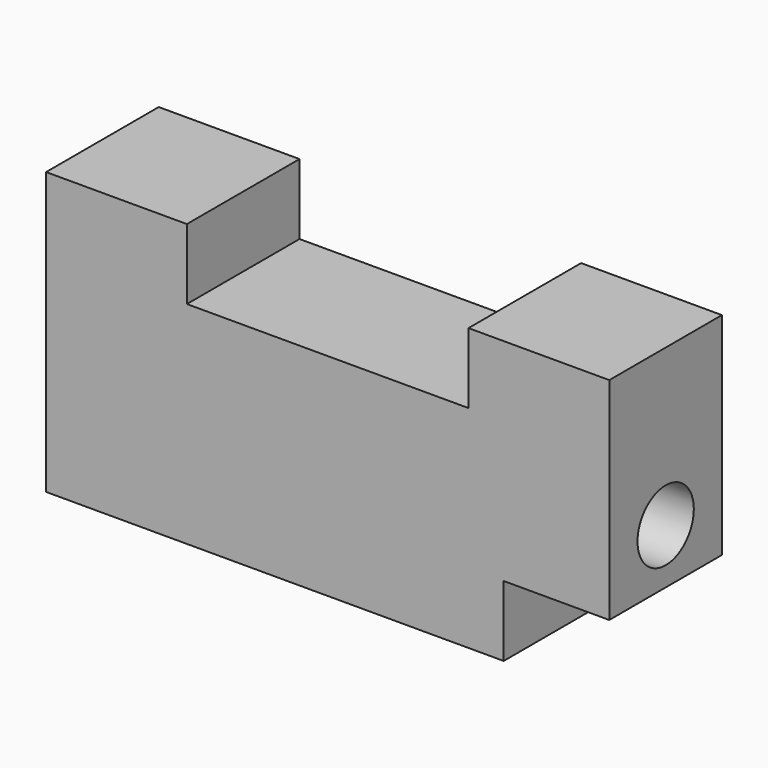
from build123d import *

# Parameters (mm, degrees)
F0_W     = 101.6
F0_H     = 50.8
F1_DEPTH = 25.4
F2_W     = 50.8
F2_H     = 12.7
F3_DEPTH = 25.401
F4_W     = 25.4
F4_H     = 12.7
F5_DEPTH = 19.05
F6_R     = 6.35
F7_DEPTH = 101.601


with BuildPart() as f1:
    # F0 (on Front) → F1 (new body)
    with BuildSketch(Plane.XZ):
        with Locations((-50.8, 25.4)):
            Rectangle(F0_W, F0_H)
    extrude(amount=F1_DEPTH)

    # F2 (on face) → F3 (cut, through all)
    with BuildSketch(Plane.XZ.offset(25.4)):
        with Locations((-50.8, 44.45)):
            Rectangle(F2_W, F2_H)
    extrude(amount=-F3_DEPTH, mode=Mode.SUBTRACT)

    # F4 (on face) → F5 (cut)
    with BuildSketch(Plane.YZ):
        with Locations((-12.7, 6.35)):
            Rectangle(F4_W, F4_H)
    extrude(amount=-F5_DEPTH, mode=Mode.SUBTRACT)

    # F6 (on face) → F7 (cut, through all)
    with BuildSketch(Plane.YZ):
        with Locations((-12.68608, 22.57858)):
            Circle(F6_R)
    extrude(amount=-F7_DEPTH, mode=Mode.SUBTRACT)


solid = f1.part
